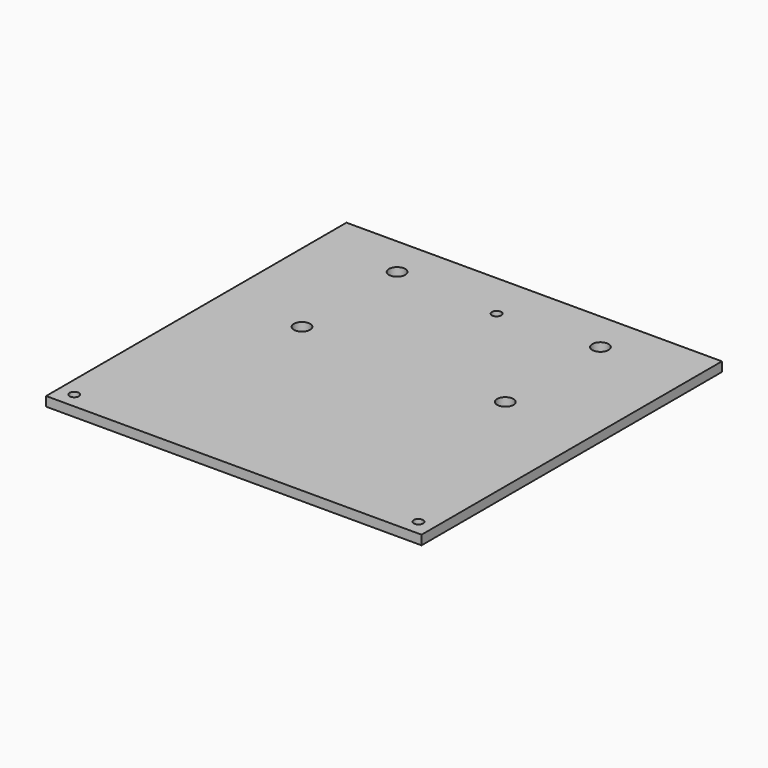
from build123d import *

# Parameters (mm, degrees)
CYLINDER018_R     = 2.6
CYLINDER018_DEPTH = 10
CYLINDER019_R     = 2.6
CYLINDER019_DEPTH = 10
CYLINDER017_R     = 2.6
CYLINDER017_DEPTH = 10
CYLINDER016_R     = 2.6
CYLINDER016_DEPTH = 10
BOX_W             = 120
BOX_H             = 120
BOX_DEPTH         = 3
SKETCH001_R       = 1.5
POCKET007_DEPTH   = 3.001


with BuildPart() as cilindro010:
    # Cylinder018 → Cylinder018 (new body)
    with BuildSketch(Plane(origin=(144.5, 152.1, 158), x_dir=(1, 0, 0), z_dir=(0, 0, 1))):
        Circle(CYLINDER018_R)
    extrude(amount=CYLINDER018_DEPTH)


with BuildPart() as cilindro011:
    # Cylinder019 → Cylinder019 (new body)
    with BuildSketch(Plane(origin=(79.5, 152.1, 158), x_dir=(1, 0, 0), z_dir=(0, 0, 1))):
        Circle(CYLINDER019_R)
    extrude(amount=CYLINDER019_DEPTH)


with BuildPart() as cilindro009:
    # Cylinder017 → Cylinder017 (new body)
    with BuildSketch(Plane(origin=(144.5, 114.1, 158), x_dir=(1, 0, 0), z_dir=(0, 0, 1))):
        Circle(CYLINDER017_R)
    extrude(amount=CYLINDER017_DEPTH)


with BuildPart() as cilindro008:
    # Cylinder016 → Cylinder016 (new body)
    with BuildSketch(Plane(origin=(79.5, 114.1, 158), x_dir=(1, 0, 0), z_dir=(0, 0, 1))):
        Circle(CYLINDER016_R)
    extrude(amount=CYLINDER016_DEPTH)


with BuildPart() as obj1:
    # Box → Box (new body)
    with BuildSketch(Plane(origin=(53, 45, 161), x_dir=(1, 0, 0), z_dir=(0, 0, 1))):
        with Locations((60, 60)):
            Rectangle(BOX_W, BOX_H)
    extrude(amount=BOX_DEPTH)

    # Cut008: cut Cilindro008
    add(cilindro008.part, mode=Mode.SUBTRACT)

    # Cut009: cut Cilindro009
    add(cilindro009.part, mode=Mode.SUBTRACT)

    # Cut010: cut Cilindro011
    add(cilindro011.part, mode=Mode.SUBTRACT)

    # Cut011: cut Cilindro010
    add(cilindro010.part, mode=Mode.SUBTRACT)

    # Sketch001 → Pocket007 (cut, through all)
    with BuildSketch(Plane.XY.offset(164)):
        with Locations((58, 50)):
            Circle(SKETCH001_R)
        with Locations((168, 50)):
            Circle(SKETCH001_R)
        with Locations((113, 150)):
            Circle(SKETCH001_R)
    extrude(amount=-POCKET007_DEPTH, mode=Mode.SUBTRACT)


solid = obj1.part
